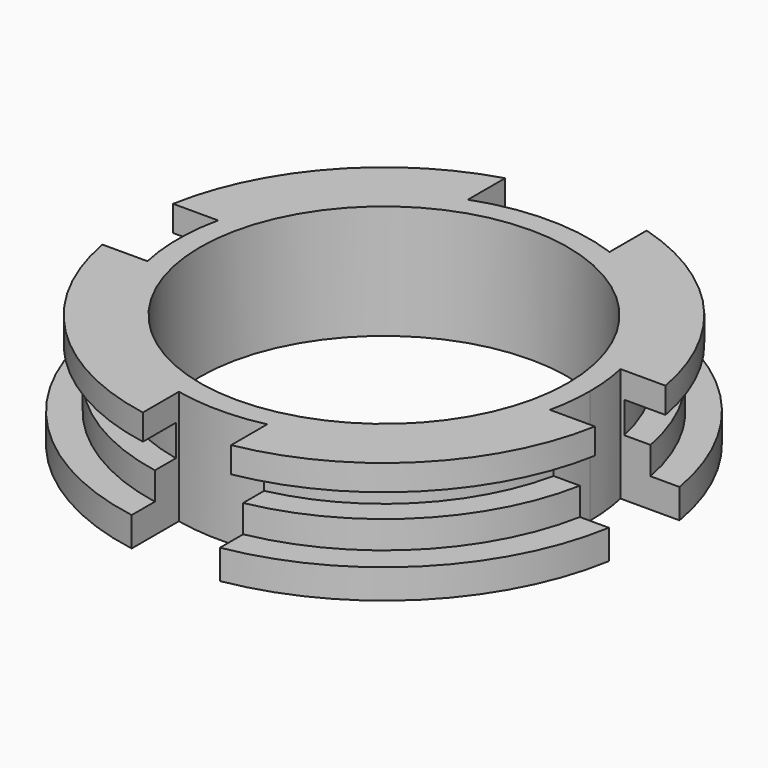
from build123d import *

# Parameters (mm, degrees)
F0_R      = 11.4
F0_R_2    = 10
F1_DEPTH  = 6.2
F2_R      = 13.6
F2_R_2    = 11.4
F3_DEPTH  = 1.4
F4_R      = 14.35
F4_R_2    = 11.4
F5_DEPTH  = 1.6
F6_R      = 12.8
F6_R_2    = 11.4
F7_DEPTH  = 1.5
F9_DEPTH  = 25
F10_R     = 0.9
F11_DEPTH = 1.5


with BuildPart() as f1:
    # F0 (on Top) → F1 (new body)
    with BuildSketch(Plane.XY):
        Circle(F0_R)
        Circle(F0_R_2, mode=Mode.SUBTRACT)
    extrude(amount=F1_DEPTH)

    # F2 (on face) → F3 (join)
    with BuildSketch(Plane.XY.offset(6.2)):
        Circle(F2_R)
        Circle(F2_R_2, mode=Mode.SUBTRACT)
    extrude(amount=-F3_DEPTH)

    # F4 (on face) → F5 (join)
    with BuildSketch(Plane(origin=(0, 0, 0), x_dir=(1, 0, 0), z_dir=(0, 0, -1))):
        Circle(F4_R)
        Circle(F4_R_2, mode=Mode.SUBTRACT)
    extrude(amount=-F5_DEPTH)

    # F6 (on face) → F7 (join)
    with BuildSketch(Plane.XY.offset(1.6)):
        Circle(F6_R)
        Circle(F6_R_2, mode=Mode.SUBTRACT)
    extrude(amount=F7_DEPTH)

    # F8 (on face) → F9 (cut)
    with BuildSketch(Plane.XY.offset(6.2)):
        with BuildLine():
            ThreePointArc((-3.85, 10.5174854409), (0, 11.2), (3.85, 10.5174854409))
            Line((3.85, 10.5174854409), (3.85, 11.2))
            Line((3.85, 11.2), (3.85, 13.0436766289))
            ThreePointArc((3.85, 13.0436766289), (0, 13.6), (-3.85, 13.0436766289))
            Line((-3.85, 13.0436766289), (-3.85, 11.2))
            Line((-3.85, 11.2), (-3.85, 10.5174854409))
        make_face()
        with BuildLine():
            ThreePointArc((-3.85, 13.0436766289), (0, 13.6), (3.85, 13.0436766289))
            Line((3.85, 13.0436766289), (3.85, 16.0734057426))
            Line((3.85, 16.0734057426), (-3.85, 16.0734057426))
            Line((-3.85, 16.0734057426), (-3.85, 13.0436766289))
        make_face()
        with BuildLine():
            ThreePointArc((-13.3865604245, -2.4), (-13.6, 0), (-13.3865604245, 2.4))
            Line((-13.3865604245, 2.4), (-16.2201337516, 2.4))
            Line((-16.2201337516, 2.4), (-16.2201337516, -2.4))
            Line((-16.2201337516, -2.4), (-13.3865604245, -2.4))
        make_face()
        with BuildLine():
            ThreePointArc((-10.9398354649, -2.4), (-11.2, 0), (-10.9398354649, 2.4))
            Line((-10.9398354649, 2.4), (-11.2, 2.4))
            Line((-11.2, 2.4), (-13.3865604245, 2.4))
            ThreePointArc((-13.3865604245, 2.4), (-13.6, 0), (-13.3865604245, -2.4))
            Line((-13.3865604245, -2.4), (-11.2, -2.4))
            Line((-11.2, -2.4), (-10.9398354649, -2.4))
        make_face()
        with BuildLine():
            ThreePointArc((10.9398354649, 2.4), (11.1347689066, 1.2070299898), (11.2, 0))
            ThreePointArc((11.2, 0), (11.1347689066, -1.2070299898), (10.9398354649, -2.4))
            Line((10.9398354649, -2.4), (11.2, -2.4))
            Line((11.2, -2.4), (13.3865604245, -2.4))
            ThreePointArc((13.3865604245, -2.4), (13.5465350141, -1.2047361176), (13.6, 0))
            ThreePointArc((13.6, 0), (13.5465350141, 1.2047361176), (13.3865604245, 2.4))
            Line((13.3865604245, 2.4), (11.2, 2.4))
            Line((11.2, 2.4), (10.9398354649, 2.4))
        make_face()
        with BuildLine():
            Line((16.2201337516, 2.4), (13.3865604245, 2.4))
            ThreePointArc((13.3865604245, 2.4), (13.5465350141, 1.2047361176), (13.6, 0))
            ThreePointArc((13.6, 0), (13.5465350141, -1.2047361176), (13.3865604245, -2.4))
            Line((13.3865604245, -2.4), (16.2201337516, -2.4))
            Line((16.2201337516, -2.4), (16.2201337516, 2.4))
        make_face()
        with BuildLine():
            Line((2.4, -11.2), (2.4, -10.9398354649))
            ThreePointArc((2.4, -10.9398354649), (0, -11.2), (-2.4, -10.9398354649))
            Line((-2.4, -10.9398354649), (-2.4, -11.2))
            Line((-2.4, -11.2), (-2.4, -13.3865604245))
            ThreePointArc((-2.4, -13.3865604245), (0, -13.6), (2.4, -13.3865604245))
            Line((2.4, -13.3865604245), (2.4, -11.2))
        make_face()
        with BuildLine():
            Line((2.4, -15.2210220695), (2.4, -13.3865604245))
            ThreePointArc((2.4, -13.3865604245), (0, -13.6), (-2.4, -13.3865604245))
            Line((-2.4, -13.3865604245), (-2.4, -15.2210220695))
            Line((-2.4, -15.2210220695), (2.4, -15.2210220695))
        make_face()
    extrude(amount=-F9_DEPTH, mode=Mode.SUBTRACT)

    # F10 (on face) → F11 (cut)
    with BuildSketch(Plane(origin=(0, 0, 0), x_dir=(1, 0, 0), z_dir=(0, 0, -1))):
        with BuildLine():
            ThreePointArc((-7.7090250609, 8.6090250609), (-8.2646099718, 9.4405166402), (-9.245421164, 9.245421164))
            Line((-9.245421164, 9.245421164), (-7.9726289579, 7.9726289579))
            ThreePointArc((-7.9726289579, 7.9726289579), (-7.7775334817, 8.2646099718), (-7.7090250609, 8.6090250609))
        make_face()
        with BuildLine():
            Line((-7.9726289579, 7.9726289579), (-9.245421164, 9.245421164))
            ThreePointArc((-9.245421164, 9.245421164), (-9.245421164, 7.9726289579), (-7.9726289579, 7.9726289579))
        make_face()
        with Locations((8.6090250609, 8.6090250609)):
            Circle(F10_R)
        with Locations((8.6090250609, -8.6090250609)):
            Circle(F10_R)
        with Locations((-8.6090250609, -8.6090250609)):
            Circle(F10_R)
    extrude(amount=-F11_DEPTH, mode=Mode.SUBTRACT)


solid = f1.part
